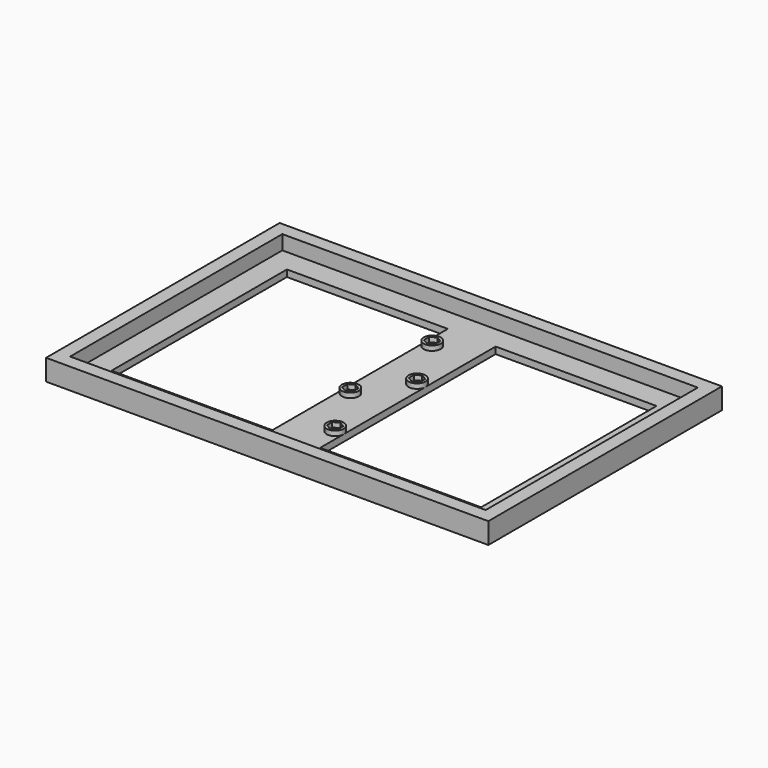
from build123d import *

# Parameters (mm, degrees)
SKETCH017_W     = 231.34
SKETCH017_H     = 152.71
SKETCH017_W_2   = 217.34
SKETCH017_H_2   = 138.71
PAD009_DEPTH    = 7.5
SKETCH018_W     = 231.34
SKETCH018_H     = 152.71
SKETCH018_W_2   = 84.17
SKETCH018_H_2   = 114.71
PAD010_DEPTH    = 3.5
SKETCH052_R     = 1.5875
POCKET020_DEPTH = 3.5
SKETCH053_R     = 4.44
PAD027_DEPTH    = 2.5


with BuildPart() as part:
    # Sketch017 → Pad009 (new body)
    with BuildSketch(Plane.XY.offset(1.57)):
        with Locations((106.67, 67.355)):
            Rectangle(SKETCH017_W, SKETCH017_H)
        with Locations((106.67, 67.355)):
            Rectangle(SKETCH017_W_2, SKETCH017_H_2, mode=Mode.SUBTRACT)
    extrude(amount=-PAD009_DEPTH)

    # Sketch018 (on Face10 of Pad009) → Pad010 (join)
    with BuildSketch(Plane(origin=(0, 0, -5.93), x_dir=(1, 0, 0), z_dir=(0, 0, -1))):
        with Locations((106.67, -67.355)):
            Rectangle(SKETCH018_W, SKETCH018_H)
        with Locations((52.085, -67.355)):
            Rectangle(SKETCH018_W_2, SKETCH018_H_2, mode=Mode.SUBTRACT)
        with Locations((161.255, -67.355)):
            Rectangle(SKETCH018_W_2, SKETCH018_H_2, mode=Mode.SUBTRACT)
    extrude(amount=PAD010_DEPTH)

    # Sketch052 (on Face13 of Pad010) → Pocket020 (cut)
    with BuildSketch(Plane(origin=(0, 0, -9.43), x_dir=(1, 0, 0), z_dir=(0, 0, -1))):
        with Locations((114.73, -25.365)):
            Circle(SKETCH052_R)
        with Locations((98.61, -55.448259)):
            Circle(SKETCH052_R)
        with Locations((114.73, -78.865)):
            Circle(SKETCH052_R)
        with Locations((98.61, -108.948259)):
            Circle(SKETCH052_R)
    extrude(amount=-POCKET020_DEPTH, mode=Mode.SUBTRACT)

    # Sketch053 (on Face15 of Pocket020) → Pad027 (join)
    with BuildSketch(Plane.XY.offset(-5.93)):
        with Locations((98.61, 108.948259)):
            Circle(SKETCH053_R)
        Polygon((101.56, 107.245076), (101.56, 110.651443), (98.61, 112.354626), (95.66, 110.651443), (95.66, 107.245076), (98.61, 105.541893), align=None, mode=Mode.SUBTRACT)
        with Locations((114.73, 78.865)):
            Circle(SKETCH053_R)
        Polygon((117.68, 77.161817), (117.68, 80.568183), (114.73, 82.271367), (111.78, 80.568183), (111.78, 77.161817), (114.73, 75.458633), align=None, mode=Mode.SUBTRACT)
        with Locations((98.61, 55.448259)):
            Circle(SKETCH053_R)
        Polygon((101.56, 53.745076), (101.56, 57.151443), (98.61, 58.854626), (95.66, 57.151443), (95.66, 53.745076), (98.61, 52.041893), align=None, mode=Mode.SUBTRACT)
        with Locations((114.73, 25.365)):
            Circle(SKETCH053_R)
        Polygon((117.68, 23.661817), (117.68, 27.068183), (114.73, 28.771367), (111.78, 27.068183), (111.78, 23.661817), (114.73, 21.958633), align=None, mode=Mode.SUBTRACT)
    extrude(amount=PAD027_DEPTH)


solid = part.part
